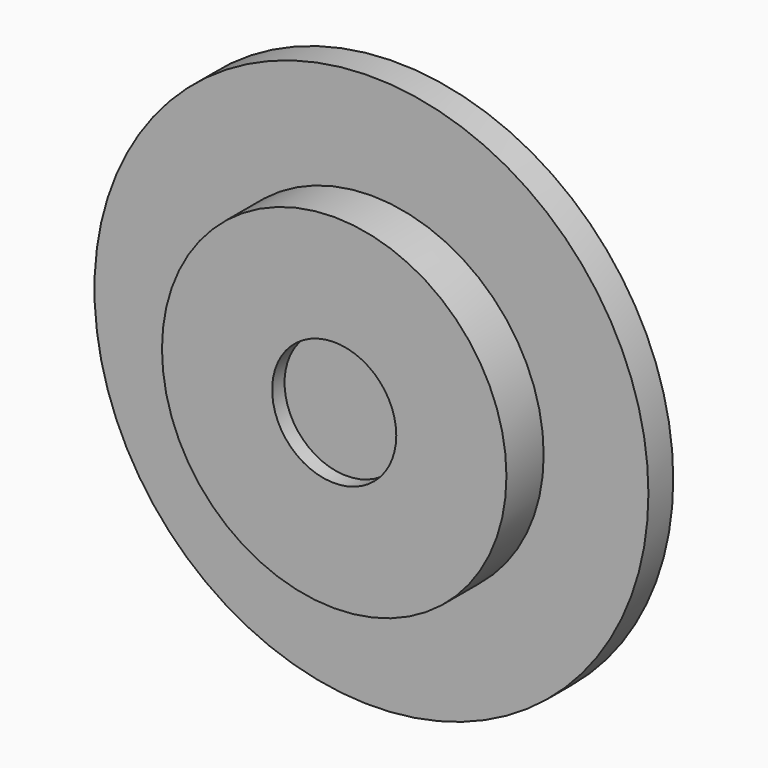
from build123d import *

# Parameters (mm, degrees)
F0_R     = 11.1
F0_R_2   = 17.85
F1_DEPTH = 2
F2_DEPTH = 5
F3_R     = 4
F4_DEPTH = 1


with BuildPart() as f1:
    # F0 (on Front) → F1 (new body)
    with BuildSketch(Plane.XZ):
        Circle(F0_R)
        Circle(F0_R_2)
        Circle(F0_R, mode=Mode.SUBTRACT)
    extrude(amount=F1_DEPTH)

    # F0 (on Front) → F2 (join)
    with BuildSketch(Plane.XZ):
        Circle(F0_R)
    extrude(amount=F2_DEPTH)

    # F3 (on face) → F4 (cut)
    with BuildSketch(Plane.XZ.offset(5)):
        Circle(F3_R)
    extrude(amount=-F4_DEPTH, mode=Mode.SUBTRACT)


solid = f1.part
